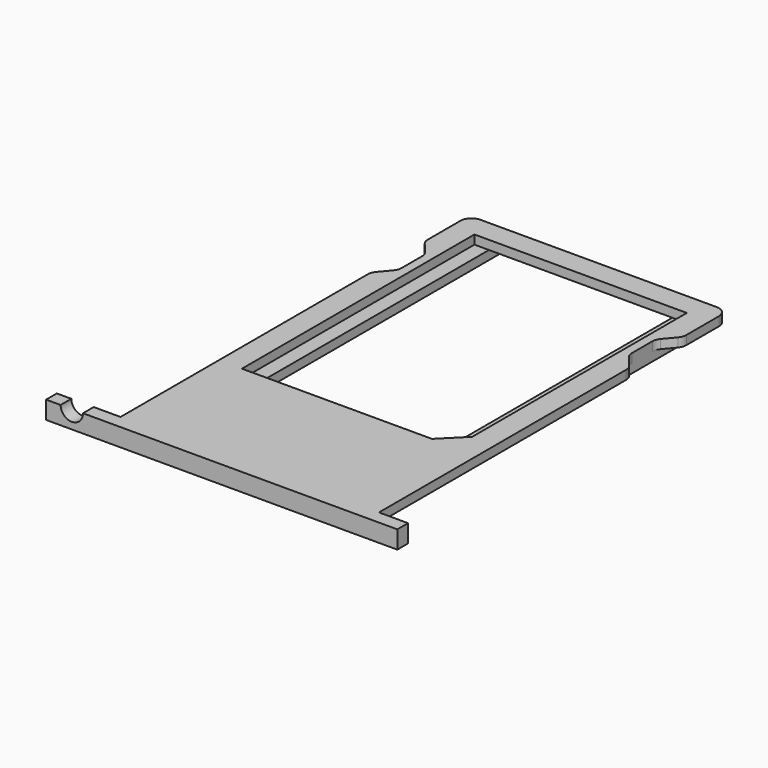
from build123d import *

# Parameters (mm, degrees)
F1_DEPTH = 0.4
F3_DEPTH = 0.4
F5_DEPTH = 0.6
F6_R     = 0.5


with BuildPart() as f1:
    # F0 (on Top) → F1 (new body)
    with BuildSketch(Plane.XY):
        Polygon((0, 14), (0, 0), (5.78, 0), (11.56, 0), (11.56, 14), (10.93, 14.75), (10.93, 16.25), (11.56, 17), (11.56, 19.5), (5.78, 19.5), (0, 19.5), (0, 17), (0.63, 16.25), (0.63, 14.75), align=None)
        Polygon((10.53, 6.5), (9.53, 5.5), (1.03, 5.5), (1.03, 18.5), (10.53, 18.5), align=None, mode=Mode.SUBTRACT)
    extrude(amount=F1_DEPTH)

    # F2 (on face) → F3 (join)
    with BuildSketch(Plane(origin=(0, 0, 0), x_dir=(1, 0, 0), z_dir=(0, 0, -1))):
        Polygon((0.63, -2.3095843679), (0.63, -19.5), (1.68, -19.5), (1.68, -3), (5.78, -3), (9.88, -3), (9.88, -19.5), (10.93, -19.5), (10.93, -2.3095843679), (10.53, -1.5567192639), (10.53, 0), (5.78, 0), (1.03, 0), (1.03, -1.5567192639), align=None)
    extrude(amount=F3_DEPTH)

    # F4 (on face) → F5 (join)
    with BuildSketch(Plane.XZ):
        with BuildLine():
            Line((-2.2, 0.4), (-2.85, 0.4))
            Line((-2.85, 0.4), (-2.85, -0.4))
            Line((-2.85, -0.4), (12.86, -0.4))
            Line((12.86, -0.4), (12.86, 0.4))
            Line((12.86, 0.4), (-1.2, 0.4))
            ThreePointArc((-1.2, 0.4), (-1.7, -0.1), (-2.2, 0.4))
        make_face()
    extrude(amount=F5_DEPTH)

    # F6
    f6_edges = [f1.edges().sort_by_distance(p)[0] for p in [
        (11.56, 19.5, 0.2),
        (11.56, 17, 0.2),
        (10.93, 16.25, 0.2),
        (10.93, 14.75, 0.2),
        (11.56, 14, 0.2),
        (0, 19.5, 0.2),
        (0, 17, 0.2),
        (0.63, 16.25, 0.2),
        (0, 14, 0.2),
        (0.63, 14.75, 0.2),
        (9.88, 3, -0.2),
        (1.68, 3, -0.2),
        (10.93, 19.5, -0.2),
        (9.88, 19.5, -0.2),
        (1.68, 19.5, -0.2),
        (0.63, 19.5, -0.2),
        (10.53, 0, -0.2),
        (1.03, 0, -0.2),
    ]]
    fillet(f6_edges, radius=F6_R)


solid = f1.part
